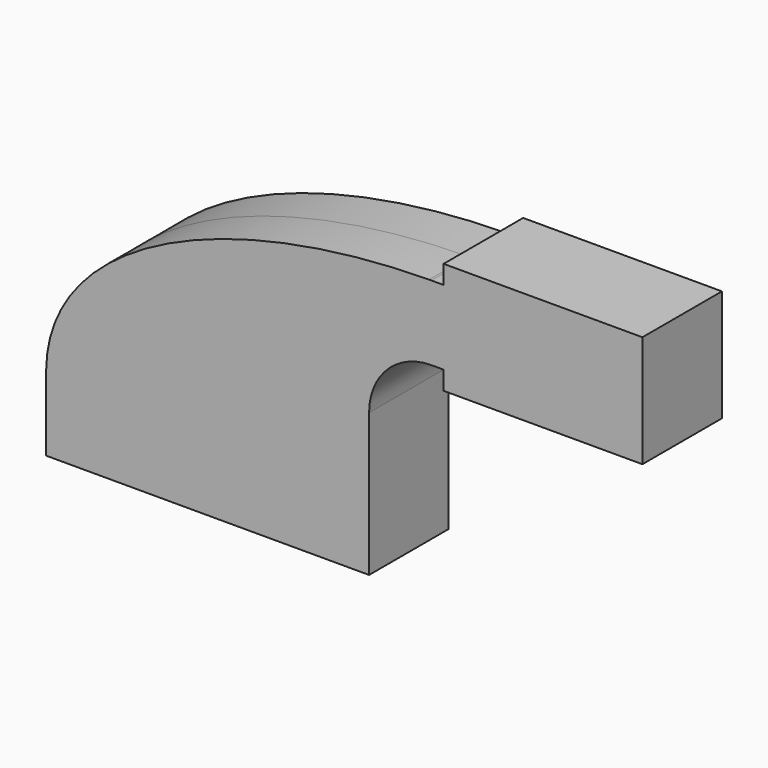
from build123d import *

# Parameters (mm, degrees)
F0_W     = 25.4
F0_H     = 4.7625
F0_H_2   = 19.05
F1_DEPTH = 12.7


with BuildPart() as f1:
    # F0 (on Front) → F1 (new body, symmetric)
    with BuildSketch(Plane.XZ):
        Polygon((41.275, -9.525), (41.275, 9.525), (22.225, 9.525), (-41.275, 9.525), (-41.275, -9.525), align=None)
        with BuildLine():
            Line((22.225, 9.525), (41.275, 9.525))
            Line((41.275, 9.525), (41.275, 26.9875))
            ThreePointArc((41.275, 26.9875), (45.9246798487, 38.2128201513), (57.15, 42.8625))
            Line((57.15, 42.8625), (60.325, 42.8625))
            Line((60.325, 42.8625), (60.325, 61.9125))
            Line((60.325, 61.9125), (57.15, 61.9125))
            add(Edge.make_bspline(
                [(56.6181319004, 61.9084498915), (56.7953297588, 61.9100229776), (56.9726195791, 61.9113731218), (57.15, 61.9125)],
                knots=[111.1262909872, 111.1262909872, 111.1262909872, 111.1262909872, 111.4985685166, 111.4985685166, 111.4985685166, 111.4985685166], degree=3))
            ThreePointArc((56.6181319004, 61.9084498915), (32.2669624204, 51.4944391359), (22.225, 26.9875))
            Line((22.225, 26.9875), (22.225, 9.525))
        make_face()
        with BuildLine():
            Line((-41.275, 9.525), (22.225, 9.525))
            Line((22.225, 9.525), (22.225, 26.9875))
            ThreePointArc((22.225, 26.9875), (32.2669624204, 51.4944391359), (56.6181319004, 61.9084498915))
            add(Edge.make_bspline(
                [(-41.275, 9.525), (-40.9761398409, 41.1041646748), (3.723881742, 61.4388775764), (56.6181319004, 61.9084498915)],
                knots=[0, 0, 0, 0, 111.1262909872, 111.1262909872, 111.1262909872, 111.1262909872], degree=3))
        make_face()
        with BuildLine():
            ThreePointArc((57.15, 61.9125), (56.8840582401, 61.9114874582), (56.6181319004, 61.9084498915))
            add(Edge.make_bspline(
                [(56.6181319004, 61.9084498915), (56.7953297588, 61.9100229776), (56.9726195791, 61.9113731218), (57.15, 61.9125)],
                knots=[111.1262909872, 111.1262909872, 111.1262909872, 111.1262909872, 111.4985685166, 111.4985685166, 111.4985685166, 111.4985685166], degree=3))
        make_face()
        with Locations((73.025, 40.48125)):
            Rectangle(F0_W, F0_H)
        with Locations((73.025, 52.3875)):
            Rectangle(F0_W, F0_H_2)
        with Locations((73.025, 64.29375)):
            Rectangle(F0_W, F0_H)
        Polygon((85.725, 61.9125), (85.725, 42.8625), (85.725, 38.1), (111.125, 38.1), (111.125, 66.675), (85.725, 66.675), align=None)
    extrude(amount=F1_DEPTH, both=True)


solid = f1.part
